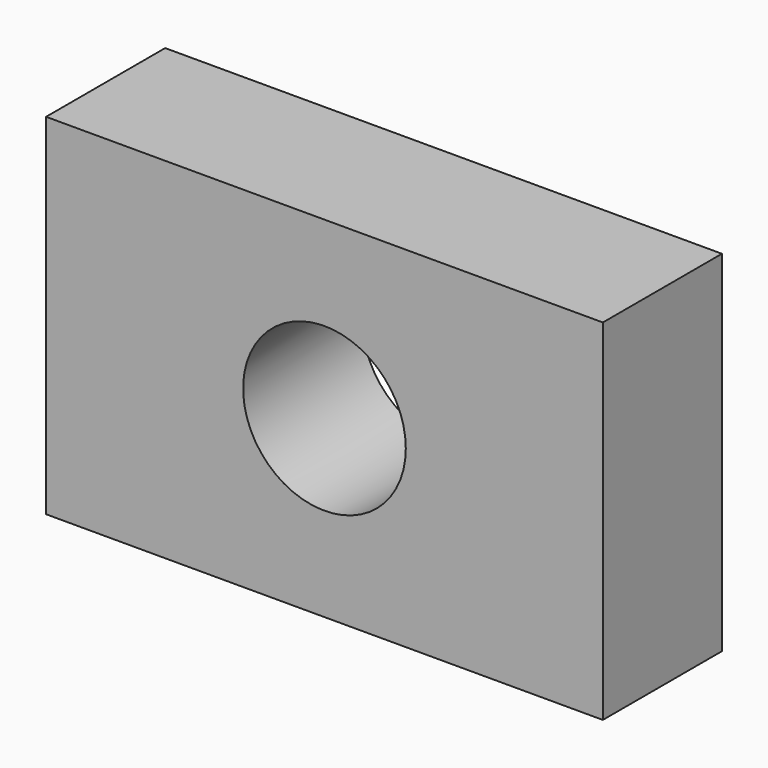
from build123d import *

# Parameters (mm, degrees)
F0_W     = 95.022186
F0_H     = 59.718806
F1_DEPTH = 25.4
F2_R     = 13.881929
F3_DEPTH = 25.401


with BuildPart() as f1:
    # F0 (on Front) → F1 (new body)
    with BuildSketch(Plane.XZ):
        Rectangle(F0_W, F0_H)
    extrude(amount=F1_DEPTH)

    # F2 (on face) → F3 (cut, through all)
    with BuildSketch(Plane.XZ.offset(25.4)):
        Circle(F2_R)
    extrude(amount=-F3_DEPTH, mode=Mode.SUBTRACT)


solid = f1.part
